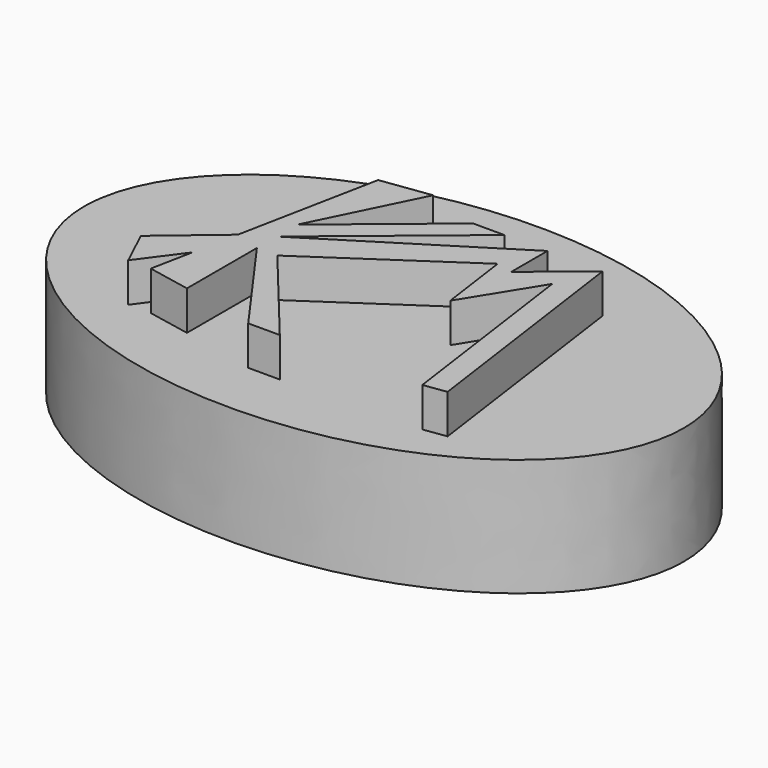
from build123d import *

# Parameters (mm, degrees)
F2_DEPTH = 15
F4_DEPTH = 5
F6_R     = 3
F6_R_2   = 3.0000008566
F6_R_3   = 3.3299006103
F6_R_4   = 3.1482950521
F7_DEPTH = 2.5


with BuildPart() as f2:
    # F1 (on face) + F0 (on Top) → F2 (new body)
    with BuildSketch(Plane.XY):
        with BuildLine():
            add(Edge.make_bspline(
                [(-68.0660605431, 27.1976441145), (-68.0660605431, -15.8105377646), (-10.648816824, 5.6935531749), (46.7684268951, 27.1976441145), (-10.648816824, 48.7017350541), (-68.0660605431, 70.2058259936), (-68.0660605431, 27.1976441145)],
                knots=[0, 0, 0, 2.0943951024, 2.0943951024, 4.1887902048, 4.1887902048, 6.2831853072, 6.2831853072, 6.2831853072], degree=2, weights=[1, 0.5, 1, 0.5, 1, 0.5, 1]))
        make_face()
    with BuildSketch(Plane.XY):
        with BuildLine():
            add(Edge.make_bspline(
                [(-68.0660605431, 27.1976441145), (-68.0660605431, -15.8105377646), (-10.648816824, 5.6935531749), (46.7684268951, 27.1976441145), (-10.648816824, 48.7017350541), (-68.0660605431, 70.2058259936), (-68.0660605431, 27.1976441145)],
                knots=[0, 0, 0, 2.0943951024, 2.0943951024, 4.1887902048, 4.1887902048, 6.2831853072, 6.2831853072, 6.2831853072], degree=2, weights=[1, 0.5, 1, 0.5, 1, 0.5, 1]))
        make_face()
    extrude(amount=F2_DEPTH)

    # F3 (on face) → F4 (join)
    with BuildSketch(Plane.XY.offset(15)):
        Polygon((-36.4074297249, 43.3147698641), (-42.7391566336, 42.4513481557), (-46.2913210955, 24.5129141748), (-47.4424354808, 18.6997854116), (-48.4952703118, 13.3829684928), (-43.0139297257, 12.297554724), (-43.0139297257, 23.4561692923), (-33.5293710232, 10.2171041071), (-29.5000895858, 10.2171041071), (-40.4059956367, 23.4561692923), (-43.0139297257, 26.6220327467), (-25.5008225164, 41.0487539096), (-29.5000895858, 41.0487539096), (-43.0139297257, 29.9164972969), align=None)
        Polygon((-20.0025010854, 41.0487539096), (-43.0139297257, 26.6220327467), (-40.4059956367, 23.4561692923), (-22.1471498775, 35.7800240209), (-20.8659190685, 26.6220327467), (-15.1921986158, 35.7800240209), (-11.679866774, 10.6745518981), (-8.7780766189, 11.0805211589), (-12.9707234497, 41.0487539096), (-20.0025010854, 35.2562069893), align=None)
        Polygon((-47.4424354808, 18.6997854116), (-46.2913210955, 24.5129141748), (-53.6757744849, 18.2756651193), (-51.3733290136, 13.3829684928), align=None)
    extrude(amount=F4_DEPTH)

    # F6 (on face) → F7 (cut)
    with BuildSketch(Plane(origin=(0, 0, 0), x_dir=(1, 0, 0), z_dir=(0, 0, -1))):
        with Locations((-38.184939098, -21.2489045136)):
            Circle(F6_R)
        with Locations((-20.6920800837, -21.2489045136)):
            Circle(F6_R_2)
        with Locations((-20.5205815094, -33.0823089125)):
            Circle(F6_R_3)
        with Locations((-38.3564371173, -33.0823089125)):
            Circle(F6_R_4)
    extrude(amount=-F7_DEPTH, mode=Mode.SUBTRACT)


solid = f2.part
